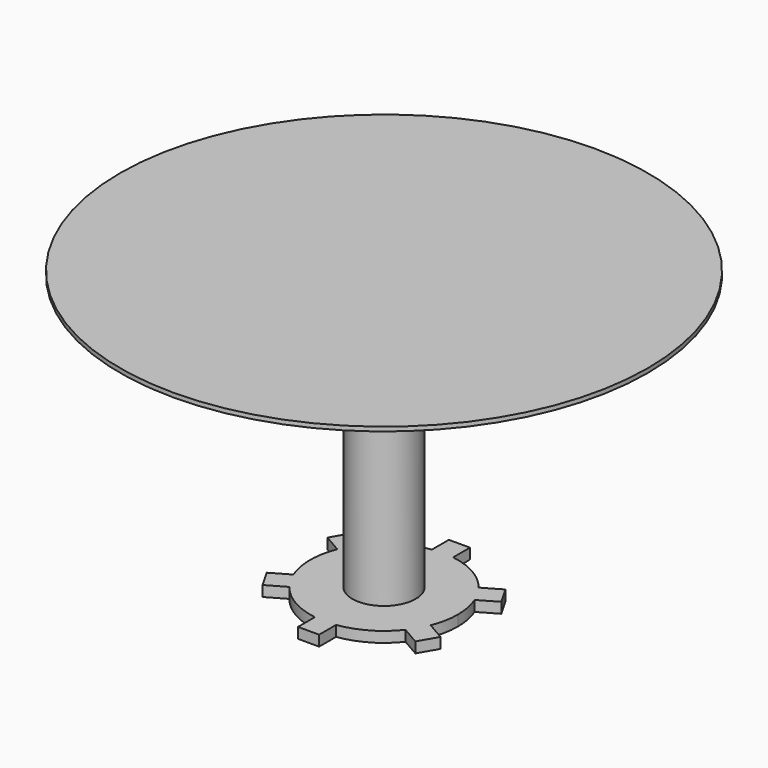
from build123d import *

# Parameters (mm, degrees)
F0_R     = 31.75
F1_DEPTH = 0.508
F2_R     = 3.81
F3_DEPTH = 33.02
F4_R     = 3.81
F5_DEPTH = 1.27
F6_R     = 3.81
F7_DEPTH = 2.54


with BuildPart() as f1:
    # F0 (on Top) → F1 (new body)
    with BuildSketch(Plane.XY):
        Circle(F0_R)
    extrude(amount=F1_DEPTH)

    # F2 (on face) → F3 (join)
    with BuildSketch(Plane(origin=(0, 0, 0), x_dir=(1, 0, 0), z_dir=(0, 0, -1))):
        Circle(F2_R)
    extrude(amount=F3_DEPTH)

    # F4 (on face) → F5 (join)
    with BuildSketch(Plane(origin=(0, 0, -33.02), x_dir=(1, 0, 0), z_dir=(0, 0, -1))):
        with BuildLine():
            ThreePointArc((8.255, -3.2995567884), (8.7298066989, -1.6800520825), (8.89, 0))
            ThreePointArc((8.89, 0), (8.7298066989, 1.6800520825), (8.255, 3.2995567884))
            ThreePointArc((8.255, 3.2995567884), (7.6989658396, 4.445), (6.985, 5.499261314))
            ThreePointArc((6.985, 5.499261314), (4.445, 7.6989658396), (1.27, 8.7988181024))
            ThreePointArc((1.27, 8.7988181024), (0, 8.89), (-1.27, 8.7988181024))
            ThreePointArc((-1.27, 8.7988181024), (-4.445, 7.6989658396), (-6.985, 5.499261314))
            ThreePointArc((-6.985, 5.499261314), (-7.6989658396, 4.445), (-8.255, 3.2995567884))
            ThreePointArc((-8.255, 3.2995567884), (-8.89, 0), (-8.255, -3.2995567884))
            ThreePointArc((-8.255, -3.2995567884), (-7.6989658396, -4.445), (-6.985, -5.499261314))
            ThreePointArc((-6.985, -5.499261314), (-4.445, -7.6989658396), (-1.27, -8.7988181024))
            ThreePointArc((-1.27, -8.7988181024), (0, -8.89), (1.27, -8.7988181024))
            ThreePointArc((1.27, -8.7988181024), (4.445, -7.6989658396), (6.985, -5.499261314))
            ThreePointArc((6.985, -5.499261314), (7.6989658396, -4.445), (8.255, -3.2995567884))
        make_face()
        Circle(F4_R, mode=Mode.SUBTRACT)
        Circle(F4_R)
        with BuildLine():
            ThreePointArc((-1.27, 8.7988181024), (0, 8.89), (1.27, 8.7988181024))
            Line((1.27, 8.7988181024), (1.27, 11.3388181024))
            Line((1.27, 11.3388181024), (-1.27, 11.3388181024))
            Line((-1.27, 11.3388181024), (-1.27, 8.7988181024))
        make_face()
        with BuildLine():
            ThreePointArc((6.985, 5.499261314), (7.6989658396, 4.445), (8.255, 3.2995567884))
            Line((8.255, 3.2995567884), (10.4547045256, 4.5695567884))
            Line((10.4547045256, 4.5695567884), (9.1847045256, 6.769261314))
            Line((9.1847045256, 6.769261314), (6.985, 5.499261314))
        make_face()
        with BuildLine():
            Line((10.4547045256, -4.5695567884), (8.255, -3.2995567884))
            ThreePointArc((8.255, -3.2995567884), (7.6989658396, -4.445), (6.985, -5.499261314))
            Line((6.985, -5.499261314), (9.1847045256, -6.769261314))
            Line((9.1847045256, -6.769261314), (10.4547045256, -4.5695567884))
        make_face()
        with BuildLine():
            Line((1.27, -11.3388181024), (1.27, -8.7988181024))
            ThreePointArc((1.27, -8.7988181024), (0, -8.89), (-1.27, -8.7988181024))
            Line((-1.27, -8.7988181024), (-1.27, -11.3388181024))
            Line((-1.27, -11.3388181024), (1.27, -11.3388181024))
        make_face()
        with BuildLine():
            Line((-9.1847045256, -6.769261314), (-6.985, -5.499261314))
            ThreePointArc((-6.985, -5.499261314), (-7.6989658396, -4.445), (-8.255, -3.2995567884))
            Line((-8.255, -3.2995567884), (-10.4547045256, -4.5695567884))
            Line((-10.4547045256, -4.5695567884), (-9.1847045256, -6.769261314))
        make_face()
        with BuildLine():
            ThreePointArc((-8.255, 3.2995567884), (-7.6989658396, 4.445), (-6.985, 5.499261314))
            Line((-6.985, 5.499261314), (-9.1847045256, 6.769261314))
            Line((-9.1847045256, 6.769261314), (-10.4547045256, 4.5695567884))
            Line((-10.4547045256, 4.5695567884), (-8.255, 3.2995567884))
        make_face()
    extrude(amount=F5_DEPTH)

    # F6 (on face) → F7 (join)
    with BuildSketch(Plane(origin=(0, 0, -34.29), x_dir=(1, 0, 0), z_dir=(0, 0, -1))):
        Circle(F6_R)
    extrude(amount=F7_DEPTH)


solid = f1.part
